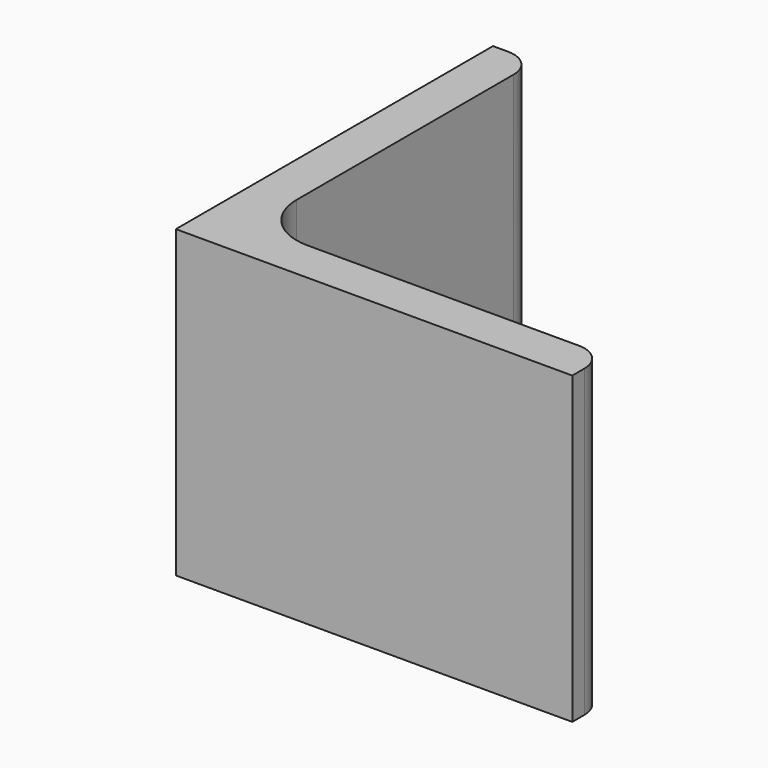
from build123d import *

# Parameters (mm, degrees)
EXTRUDE_DEPTH = 50


with BuildPart() as part:
    # Sketch → Extrude (new body)
    with BuildSketch(Plane.XY):
        with BuildLine():
            Line((0, 0), (65, 0))
            Line((65, 0), (65, 2.5))
            ThreePointArc((65, 2.5), (63.681981, 5.681981), (60.5, 7))
            Line((60.5, 7), (16, 7))
            ThreePointArc((7, 16), (9.636039, 9.636039), (16, 7))
            Line((7, 60.5), (7, 16))
            ThreePointArc((7, 60.5), (5.681981, 63.681981), (2.5, 65))
            Line((0, 65), (2.5, 65))
            Line((0, 0), (0, 65))
        make_face()
    extrude(amount=EXTRUDE_DEPTH)


solid = part.part
